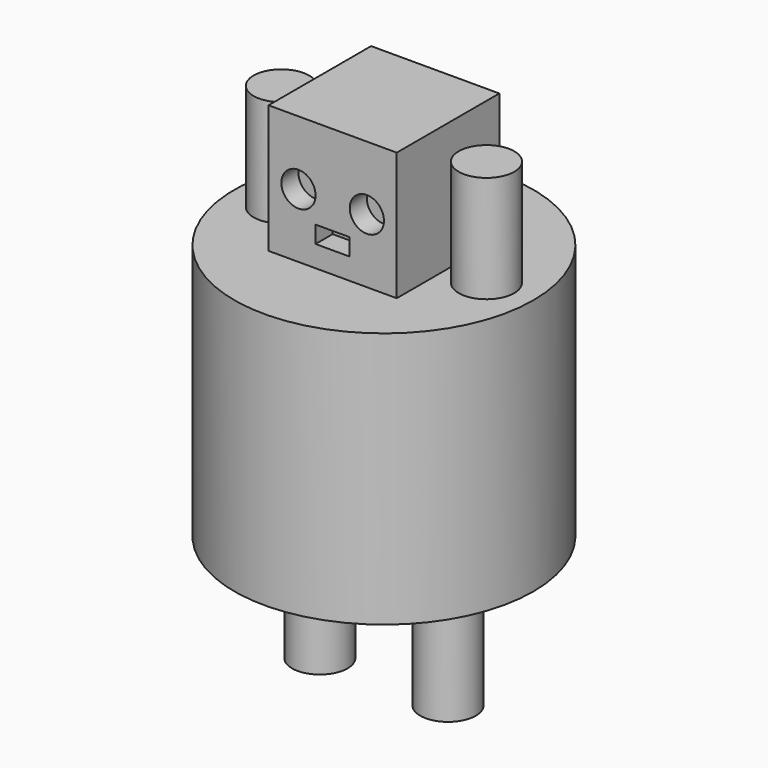
from build123d import *

# Parameters (mm, degrees)
F0_W     = 30
F0_H     = 30
F1_DEPTH = 15
F2_R     = 35
F3_DEPTH = 60
F4_R     = 6.5
F5_DEPTH = 30
F6_R     = 4
F6_W     = 8
F6_H     = 4
F7_DEPTH = 5
F8_R     = 6.5
F9_DEPTH = 25


with BuildPart() as f1:
    # F0 (on Front) → F1 (new body, symmetric)
    with BuildSketch(Plane.XZ):
        with Locations((0, 40)):
            Rectangle(F0_W, F0_H)
    extrude(amount=F1_DEPTH, both=True)

    # F2 (on face) → F3 (join)
    with BuildSketch(Plane(origin=(0, 0, 25), x_dir=(1, 0, 0), z_dir=(0, 0, -1))):
        Circle(F2_R)
    extrude(amount=F3_DEPTH)

    # F4 (on face) → F5 (join)
    with BuildSketch(Plane(origin=(0, 0, -35), x_dir=(1, 0, 0), z_dir=(0, 0, -1))):
        with Locations((-15, 0)):
            Circle(F4_R)
        with Locations((15, 0)):
            Circle(F4_R)
    extrude(amount=F5_DEPTH)

    # F6 (on face) → F7 (cut)
    with BuildSketch(Plane.XZ.offset(15)):
        with Locations((-8, 40)):
            Circle(F6_R)
        with Locations((8, 40)):
            Circle(F6_R)
        with Locations((0, 32)):
            Rectangle(F6_W, F6_H)
    extrude(amount=-F7_DEPTH, mode=Mode.SUBTRACT)

    # F8 (on face) → F9 (join)
    with BuildSketch(Plane.XY.offset(25)):
        with Locations((-24, 0)):
            Circle(F8_R)
        with Locations((24, 0)):
            Circle(F8_R)
    extrude(amount=F9_DEPTH)


solid = f1.part
